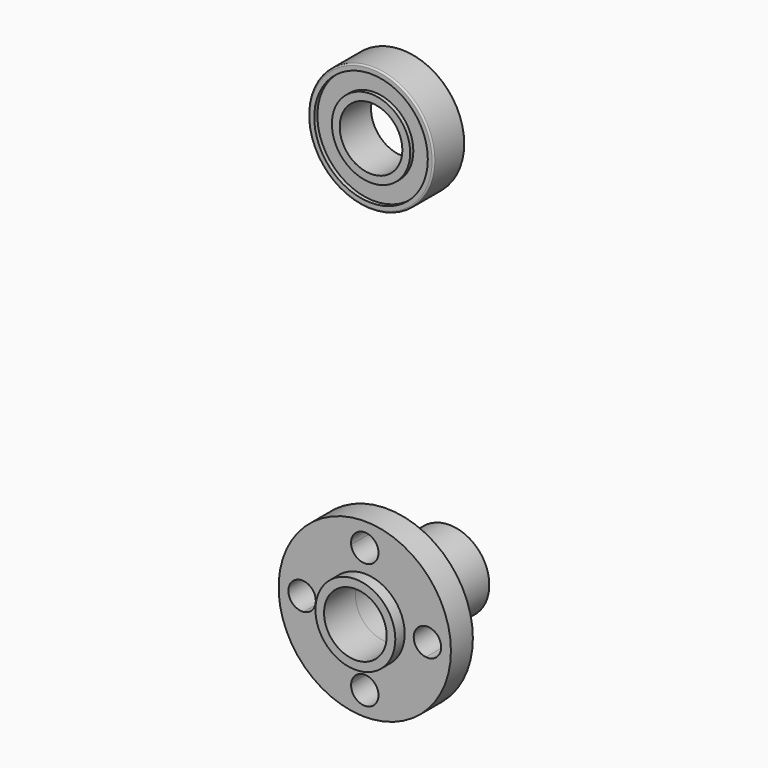
from build123d import *

# Parameters (mm, degrees)
F0_R      = 11
F0_R_2    = 4
F1_DEPTH  = 3.5
F2_R      = 5.1
F2_R_2    = 4
F3_DEPTH  = 1.5
F4_R      = 5.1
F4_R_2    = 4
F5_DEPTH  = 10
F6_R      = 5
F6_R_2    = 4
F7_DEPTH  = 2.5
F8_R      = 7.25
F8_R_2    = 5
F9_DEPTH  = 2
F10_R     = 8
F10_R_2   = 7.25
F11_DEPTH = 5
F12_R     = 0.2


with BuildPart() as f1:
    # F0 (on Front) → F1 (new body)
    with BuildSketch(Plane.XZ):
        Circle(F0_R)
        with BuildLine():
            ThreePointArc((1.739501, 7.808594), (5.656854, 5.656854), (7.808594, 1.739501))
            ThreePointArc((7.808594, 1.739501), (9.167805, 1.303354), (9.75, 0))
            ThreePointArc((9.75, 0), (9.167805, -1.303354), (7.808594, -1.739501))
            ThreePointArc((7.808594, -1.739501), (5.656854, -5.656854), (1.739501, -7.808594))
            ThreePointArc((1.739501, -7.808594), (1.747373, -7.904153), (1.75, -8))
            ThreePointArc((1.75, -8), (-0.095847, -9.747373), (-1.739501, -7.808594))
            ThreePointArc((-1.739501, -7.808594), (-5.656854, -5.656854), (-7.808594, -1.739501))
            ThreePointArc((-7.808594, -1.739501), (-9.75, 0), (-7.808594, 1.739501))
            ThreePointArc((-7.808594, 1.739501), (-5.656854, 5.656854), (-1.739501, 7.808594))
            ThreePointArc((-1.739501, 7.808594), (-0.095847, 9.747373), (1.75, 8))
            ThreePointArc((1.75, 8), (1.747373, 7.904153), (1.739501, 7.808594))
        make_face(mode=Mode.SUBTRACT)
        with BuildLine():
            ThreePointArc((7.808594, -1.739501), (6.25, 0), (7.808594, 1.739501))
            ThreePointArc((7.808594, 1.739501), (5.656854, 5.656854), (1.739501, 7.808594))
            ThreePointArc((1.739501, 7.808594), (0, 6.25), (-1.739501, 7.808594))
            ThreePointArc((-1.739501, 7.808594), (-5.656854, 5.656854), (-7.808594, 1.739501))
            ThreePointArc((-7.808594, 1.739501), (-6.696646, 1.167805), (-6.25, 0))
            ThreePointArc((-6.25, 0), (-6.696646, -1.167805), (-7.808594, -1.739501))
            ThreePointArc((-7.808594, -1.739501), (-5.656854, -5.656854), (-1.739501, -7.808594))
            ThreePointArc((-1.739501, -7.808594), (0, -6.25), (1.739501, -7.808594))
            ThreePointArc((1.739501, -7.808594), (5.656854, -5.656854), (7.808594, -1.739501))
        make_face()
        Circle(F0_R_2, mode=Mode.SUBTRACT)
    extrude(amount=F1_DEPTH)

    # F2 (on face) → F3 (join)
    with BuildSketch(Plane.XZ.offset(3.5)):
        Circle(F2_R)
        Circle(F2_R_2, mode=Mode.SUBTRACT)
    extrude(amount=F3_DEPTH)

    # F4 (on face) → F5 (join)
    with BuildSketch(Plane(origin=(0, 0, 0), x_dir=(-1, 0, 0), z_dir=(0, 1, 0))):
        Circle(F4_R)
        Circle(F4_R_2, mode=Mode.SUBTRACT)
    extrude(amount=F5_DEPTH)


with BuildPart() as f7:
    # F6 (on Front) → F7 (new body, symmetric)
    with BuildSketch(Plane.XZ):
        with Locations((0, 53.610403)):
            Circle(F6_R)
        with Locations((0, 53.610403)):
            Circle(F6_R_2, mode=Mode.SUBTRACT)
    extrude(amount=F7_DEPTH, both=True)


with BuildPart() as f9:
    # F8 (on Front) → F9 (new body, symmetric)
    with BuildSketch(Plane.XZ):
        with Locations((0, 53.610403)):
            Circle(F8_R)
        with Locations((0, 53.610403)):
            Circle(F8_R_2, mode=Mode.SUBTRACT)
    extrude(amount=F9_DEPTH, both=True)


with BuildPart() as f11:
    # F10 (on face) → F11 (new body)
    with BuildSketch(Plane.XZ.offset(2.5)):
        with Locations((0, 53.610403)):
            Circle(F10_R)
        with Locations((0, 53.610403)):
            Circle(F10_R_2, mode=Mode.SUBTRACT)
    extrude(amount=-F11_DEPTH)

    # F12
    f12_edges = [f11.edges().sort_by_distance(p)[0] for p in [
        (-8, -2.5, 53.610403),
        (-8, 2.5, 53.610403),
    ]]
    fillet(f12_edges, radius=F12_R)


solid = Compound([f1.part, f7.part, f9.part, f11.part])
